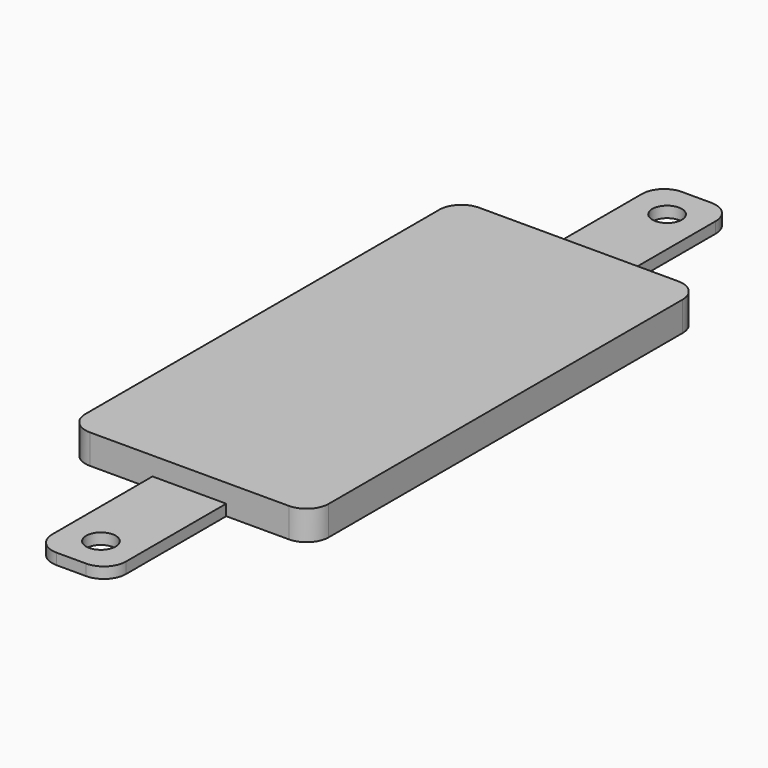
from build123d import *

# Parameters (mm, degrees)
F0_W     = 10
F0_H     = 20
F0_R     = 2
F1_DEPTH = 1.5
F2_DEPTH = 4
F3_R     = 3
F3_2_R   = 3


with BuildPart() as f1:
    # F0 (on Top) → F1 (new body)
    with BuildSketch(Plane.XY):
        with Locations((0, 57.625134)):
            Rectangle(F0_W, F0_H)
        with Locations((0, 62.625134)):
            Circle(F0_R, mode=Mode.SUBTRACT)
        with Locations((0, -28.374866)):
            Rectangle(F0_W, F0_H)
        with Locations((0, -33.374866)):
            Circle(F0_R, mode=Mode.SUBTRACT)
    extrude(amount=F1_DEPTH)

    # F3#2
    f3_2_edges = [f1.edges().sort_by_distance(p)[0] for p in [
        (-5, -38.374866, 0.75),
        (5, -38.374866, 0.75),
        (5, 67.625134, 0.75),
        (-5, 67.625134, 0.75),
    ]]
    fillet(f3_2_edges, radius=F3_2_R)


with BuildPart() as f2:
    # F0 (on Top) → F2 (new body)
    with BuildSketch(Plane.XY):
        Polygon((-5, 47.625134), (-16.5, 47.625134), (-16.5, -18.374866), (-5, -18.374866), (5, -18.374866), (16.5, -18.374866), (16.5, 47.625134), (5, 47.625134), align=None)
    extrude(amount=F2_DEPTH)

    # F3
    f3_edges = [f2.edges().sort_by_distance(p)[0] for p in [
        (16.5, 47.625134, 2),
        (-16.5, 47.625134, 2),
        (-16.5, -18.374866, 2),
        (16.5, -18.374866, 2),
    ]]
    fillet(f3_edges, radius=F3_R)


solid = Compound([f1.part, f2.part])
